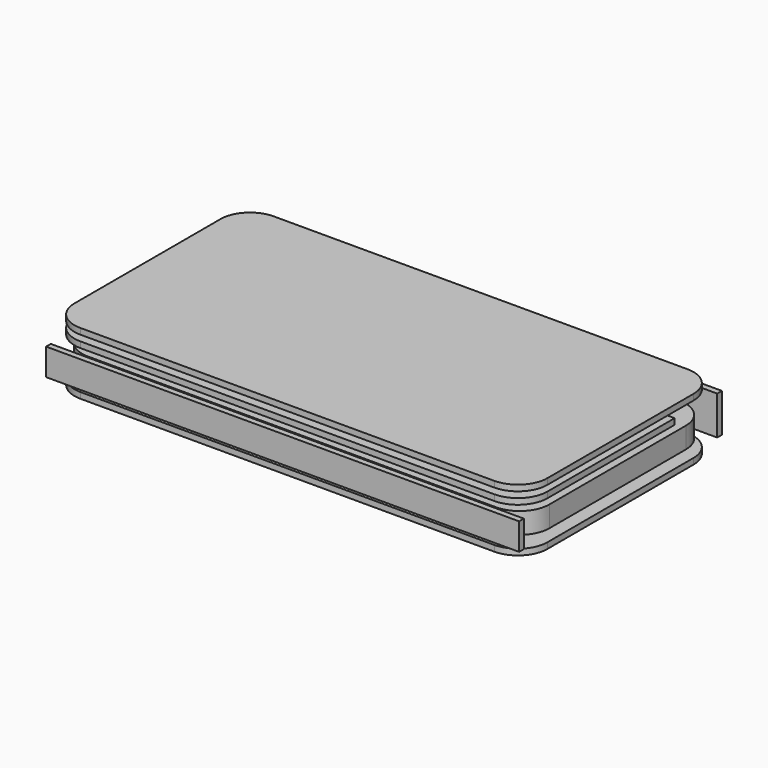
from build123d import *

# Parameters (mm, degrees)
F1_DEPTH  = 7.1
F3_W      = 160.1
F3_H      = 9.1
F4_DEPTH  = 2
F8_DEPTH  = 2
F11_DEPTH = 2
F14_DEPTH = 2
F15_DEPTH = 4


with BuildPart() as f1:
    # F0 (on Top) → F1 (new body)
    with BuildSketch(Plane.XY):
        with BuildLine():
            Line((69.05, 38.9), (-69.05, 38.9))
            ThreePointArc((-69.05, 38.9), (-76.1210678119, 35.9710678119), (-79.05, 28.9))
            Line((-79.05, 28.9), (-79.05, -28.9))
            ThreePointArc((-79.05, -28.9), (-76.1210678119, -35.9710678119), (-69.05, -38.9))
            Line((-69.05, -38.9), (69.05, -38.9))
            ThreePointArc((69.05, -38.9), (76.1210678119, -35.9710678119), (79.05, -28.9))
            Line((79.05, -28.9), (79.05, 28.9))
            ThreePointArc((79.05, 28.9), (76.1210678119, 35.9710678119), (69.05, 38.9))
        make_face()
    extrude(amount=F1_DEPTH)


with BuildPart() as f4:
    # F3 (on offset) → F4 (new body)
    with BuildSketch(Plane.XZ.offset(40.9)):
        with Locations((0, 3.55)):
            Rectangle(F3_W, F3_H)
    extrude(amount=F4_DEPTH)


with BuildPart() as f5_1:
    # F5: instance of F4
    add(f4.part.mirror(Plane.XZ))

    # F15 (add): a face of the model
    f15_faces = [f5_1.faces().sort_by_distance(p)[0] for p in [
        (0, 41.9, 8.1),
    ]]
    extrude(f15_faces, amount=F15_DEPTH)


with BuildPart() as f8:
    # F7 (on offset) → F8 (new body)
    with BuildSketch(Plane(origin=(0, 0, -3), x_dir=(1, 0, 0), z_dir=(0, 0, -1))):
        with BuildLine():
            ThreePointArc((80.05, 30.9), (77.1210678119, 37.9710678119), (70.05, 40.9))
            Line((70.05, 40.9), (-70.05, 40.9))
            ThreePointArc((-70.05, 40.9), (-77.1210678119, 37.9710678119), (-80.05, 30.9))
            Line((-80.05, 30.9), (-80.05, -30.9))
            ThreePointArc((-80.05, -30.9), (-77.1210678119, -37.9710678119), (-70.05, -40.9))
            Line((-70.05, -40.9), (70.05, -40.9))
            ThreePointArc((70.05, -40.9), (77.1210678119, -37.9710678119), (80.05, -30.9))
            Line((80.05, -30.9), (80.05, 30.9))
        make_face()
    extrude(amount=F8_DEPTH)


with BuildPart() as f11:
    # F10 (on offset) → F11 (new body)
    with BuildSketch(Plane.XY.offset(10.1)):
        with BuildLine():
            Line((-70.05, -40.9), (70.05, -40.9))
            ThreePointArc((70.05, -40.9), (77.1210678119, -37.9710678119), (80.05, -30.9))
            Line((80.05, -30.9), (80.05, 22.9))
            Line((80.05, 22.9), (-80.05, 22.9))
            Line((-80.05, 22.9), (-80.05, -30.9))
            ThreePointArc((-80.05, -30.9), (-77.1210678119, -37.9710678119), (-70.05, -40.9))
        make_face()
    extrude(amount=F11_DEPTH)


with BuildPart() as f14:
    # F13 (on offset) → F14 (new body)
    with BuildSketch(Plane.XY.offset(14.1)):
        with BuildLine():
            ThreePointArc((80.05, 30.9), (77.1210678119, 37.9710678119), (70.05, 40.9))
            Line((70.05, 40.9), (-70.05, 40.9))
            ThreePointArc((-70.05, 40.9), (-77.1210678119, 37.9710678119), (-80.05, 30.9))
            Line((-80.05, 30.9), (-80.05, -30.9))
            ThreePointArc((-80.05, -30.9), (-77.1210678119, -37.9710678119), (-70.05, -40.9))
            Line((-70.05, -40.9), (70.05, -40.9))
            ThreePointArc((70.05, -40.9), (77.1210678119, -37.9710678119), (80.05, -30.9))
            Line((80.05, -30.9), (80.05, 30.9))
        make_face()
    extrude(amount=F14_DEPTH)


solid = Compound([f1.part, f4.part, f5_1.part, f8.part, f11.part, f14.part])
